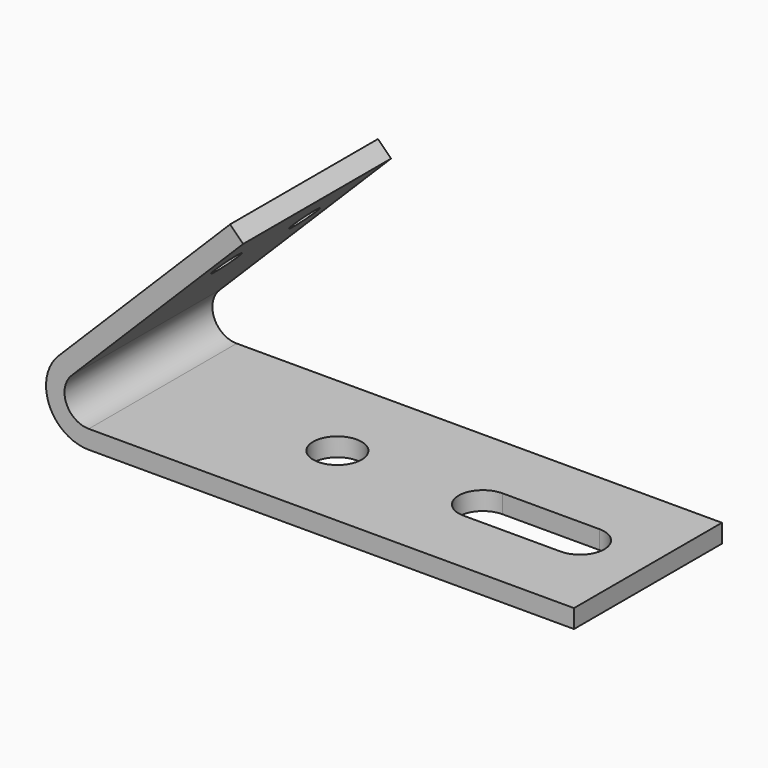
from build123d import *

# Parameters (mm, degrees)
F1_DEPTH = 483.87
F3_DEPTH = 76.2
F4_R     = 38.1
F5_DEPTH = 50.8
F2_R     = 63.5
F6_DEPTH = 50.8


with BuildPart() as f1:
    # F0 (on Front) → F1 (new body)
    with BuildSketch(Plane.XZ):
        with BuildLine():
            Line((323.430955, 639.79906), (-125.581851, 190.786254))
            ThreePointArc((-125.581851, 190.786254), (-149.808374, 68.9913), (-46.555597, 0))
            Line((-46.555597, 0), (1223.444403, 0))
            Line((1223.444403, 0), (1223.444403, 48.26))
            Line((1223.444403, 48.26), (-46.555597, 48.26))
            ThreePointArc((-46.555597, 48.26), (-105.221948, 87.459602), (-91.456878, 156.661281))
            Line((-91.456878, 156.661281), (357.555928, 605.674087))
            Line((357.555928, 605.674087), (323.430955, 639.79906))
        make_face()
    extrude(amount=-F1_DEPTH)

    # F2 (on face) → F3 (cut)
    with BuildSketch(Plane.XY.offset(48.26)):
        with BuildLine():
            Line((791.644403, 178.435), (1045.644403, 178.435))
            ThreePointArc((1045.644403, 178.435), (1109.144403, 241.935), (1045.644403, 305.435))
            Line((1045.644403, 305.435), (791.644403, 305.435))
            ThreePointArc((791.644403, 305.435), (728.144403, 241.935), (791.644403, 178.435))
        make_face()
    extrude(amount=-F3_DEPTH, mode=Mode.SUBTRACT)

    # F4 (on face) → F5 (cut)
    with BuildSketch(Plane(origin=(-158.184053, 0, 158.184053), x_dir=(0, -1, 0), z_dir=(-0.707107, 0, 0.707107))):
        with Locations((-369.57, 490.606475)):
            Circle(F4_R)
        with Locations((-114.3, 490.606475)):
            Circle(F4_R)
    extrude(amount=-F5_DEPTH, mode=Mode.SUBTRACT)

    # F2 (on face) → F6 (cut)
    with BuildSketch(Plane.XY.offset(48.26)):
        with Locations((410.644403, 241.935)):
            Circle(F2_R)
    extrude(amount=-F6_DEPTH, mode=Mode.SUBTRACT)


solid = f1.part
